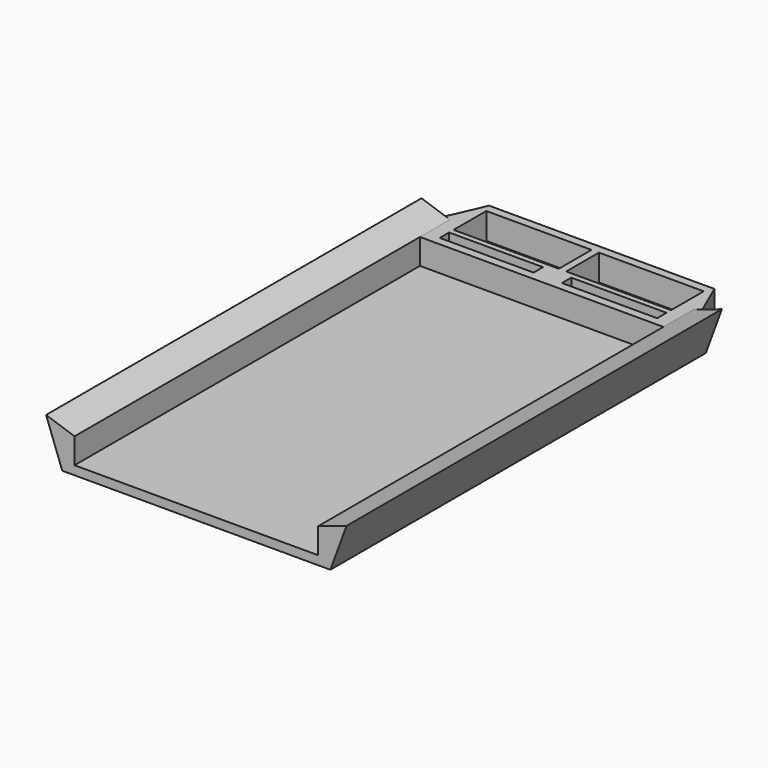
from build123d import *

# Parameters (mm, degrees)
F1_DEPTH = 127
F3_DEPTH = 10.16
F4_W     = 65.889194
F4_H     = 6.89044
F5_DEPTH = 10.16
F7_DEPTH = 25.4
F8_W     = 25.775215
F8_H     = 3.177766
F8_W_2   = 25.416197
F9_DEPTH = 7.112


with BuildPart() as f1:
    # F0 (on Front) → F1 (new body)
    with BuildSketch(Plane.XZ):
        Polygon((-40.653061, 5.938083), (-36.282156, -5.938083), (36.282156, -5.938083), (40.653061, 5.938083), (32.944597, 3.345205), (32.944597, -3.545235), (0, -3.545235), (-32.944597, -3.545235), (-32.944597, 3.345205), align=None)
    extrude(amount=F1_DEPTH)

    # F2 (on face) → F3 (join)
    with BuildSketch(Plane(origin=(0, 0, 0), x_dir=(-1, 0, 0), z_dir=(0, 1, 0))):
        Polygon((-34.912035, 3.345205), (-34.912035, -5.938083), (34.912035, -5.938083), (34.912035, 3.345205), (-32.944597, 3.345205), align=None)
    extrude(amount=F3_DEPTH)

    # F4 (on face) → F5 (join)
    with BuildSketch(Plane.XZ):
        with Locations((0, -0.100015)):
            Rectangle(F4_W, F4_H)
    extrude(amount=F5_DEPTH)

    # F6 (on face) → F7 (cut)
    with BuildSketch(Plane.XY.offset(3.345205)):
        Polygon((30.480051, 10.16), (34.912035, 0), (34.912035, 10.16), align=None)
        Polygon((-34.912035, 10.16), (-34.912035, 0), (-30.480051, 10.16), align=None)
    extrude(amount=-F7_DEPTH, mode=Mode.SUBTRACT)

    # F8 (on face) → F9 (cut)
    with BuildSketch(Plane.XY.offset(3.345205)):
        with Locations((16.533188, -6.29418)):
            Rectangle(F8_W, F8_H)
        Polygon((29.420795, -3.175261), (29.420795, 7.883063), (1.056288, 7.883063), (1.056288, -3.175261), (3.64558, -3.175261), align=None)
        with Locations((-16.712696, -6.29418)):
            Rectangle(F8_W_2, F8_H)
        Polygon((-29.420795, 7.883063), (-29.420795, -3.175261), (-4.004598, -3.175261), (-0.944527, -3.175261), (-0.944527, 7.883063), align=None)
    extrude(amount=-F9_DEPTH, mode=Mode.SUBTRACT)


solid = f1.part
